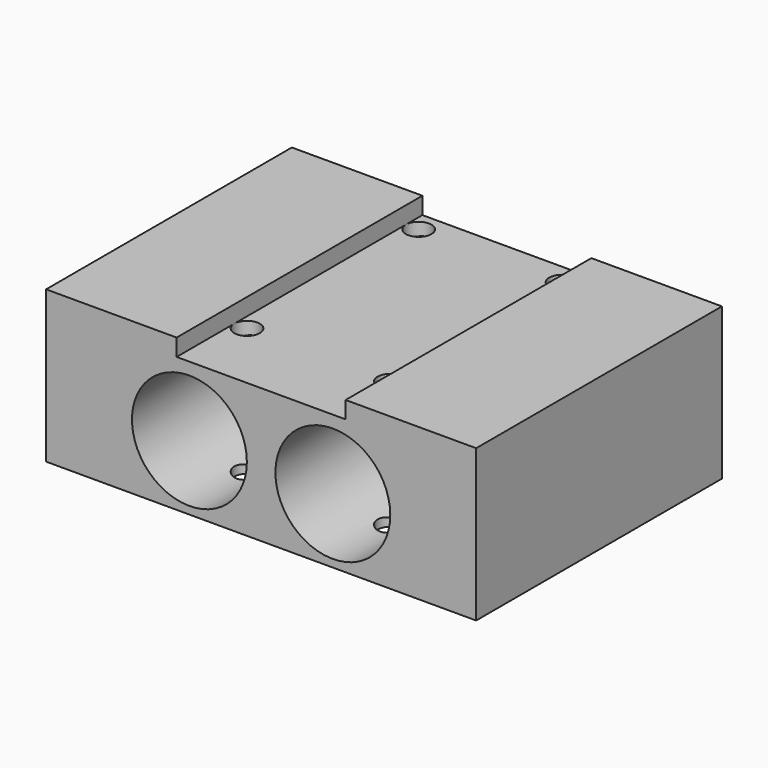
from build123d import *

# Parameters (mm, degrees)
F0_W     = 50.40313
F0_H     = 36
F0_R     = 1.5
F1_DEPTH = 17.78
F3_R     = 6.731
F4_DEPTH = 63.2
F5_W     = 19.80113
F5_H     = 36
F6_DEPTH = 2


with BuildPart() as f1:
    # F0 (on Top) → F1 (new body)
    with BuildSketch(Plane.XY):
        Rectangle(F0_W, F0_H)
        with Locations((-8.400565, -9.56)):
            Circle(F0_R, mode=Mode.SUBTRACT)
        with Locations((8.400565, -9.56)):
            Circle(F0_R, mode=Mode.SUBTRACT)
        with Locations((-8.400565, 15.58)):
            Circle(F0_R, mode=Mode.SUBTRACT)
        with Locations((8.400565, 15.58)):
            Circle(F0_R, mode=Mode.SUBTRACT)
    extrude(amount=-F1_DEPTH)

    # F3 (on face) → F4 (cut)
    with BuildSketch(Plane.XZ.offset(18)):
        with Locations((-8.403565, -10.16)):
            Circle(F3_R)
        with Locations((8.403435, -10.16)):
            Circle(F3_R)
    extrude(amount=-F4_DEPTH, mode=Mode.SUBTRACT)

    # F5 (on face) → F6 (cut)
    with BuildSketch(Plane.XY):
        Rectangle(F5_W, F5_H)
    extrude(amount=-F6_DEPTH, mode=Mode.SUBTRACT)


solid = f1.part
